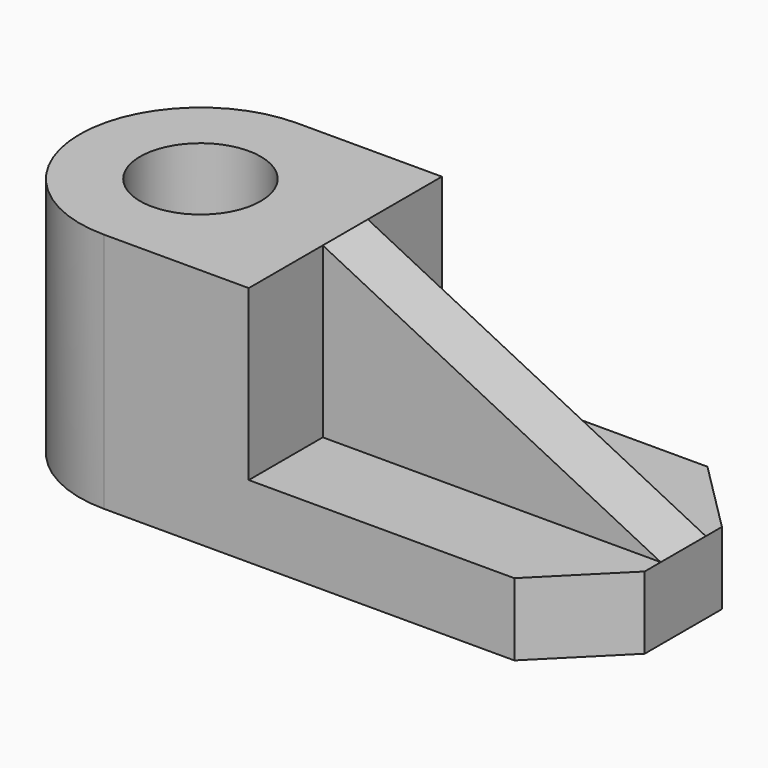
from build123d import *

# Parameters (mm, degrees)
F0_R     = 19.05
F1_DEPTH = 76.2
F2_DEPTH = 22.86
F0_W     = 106.68
F0_H     = 17.78
F3_DEPTH = 76.2
F5_DEPTH = 254


with BuildPart() as f1:
    # F0 (on Top) → F1 (new body)
    with BuildSketch(Plane.XY):
        with BuildLine():
            Line((-106.68, 38.1), (-152.4, 38.1))
            ThreePointArc((-152.4, 38.1), (-190.5, 0), (-152.4, -38.1))
            Line((-152.4, -38.1), (-106.68, -38.1))
            Line((-106.68, -38.1), (-106.68, -8.89))
            Line((-106.68, -8.89), (-106.68, 8.89))
            Line((-106.68, 8.89), (-106.68, 38.1))
        make_face()
        with Locations((-152.4, 0)):
            Circle(F0_R, mode=Mode.SUBTRACT)
    extrude(amount=F1_DEPTH)

    # F0 (on Top) → F2 (join)
    with BuildSketch(Plane.XY):
        Polygon((-106.68, -8.89), (-106.68, -38.1), (-22.86, -38.1), (0, -15.24), (0, -8.89), align=None)
        Polygon((-22.86, 38.1), (-106.68, 38.1), (-106.68, 8.89), (0, 8.89), (0, 15.24), align=None)
    extrude(amount=F2_DEPTH)

    # F0 (on Top) → F3 (join)
    with BuildSketch(Plane.XY):
        with Locations((-53.34, 0)):
            Rectangle(F0_W, F0_H)
    extrude(amount=F3_DEPTH)

    # F4 (on face) → F5 (cut)
    with BuildSketch(Plane.XZ.offset(8.89)):
        Polygon((0, 76.2), (-106.68, 76.2), (0, 22.86), align=None)
    extrude(amount=-F5_DEPTH, mode=Mode.SUBTRACT)


solid = f1.part
